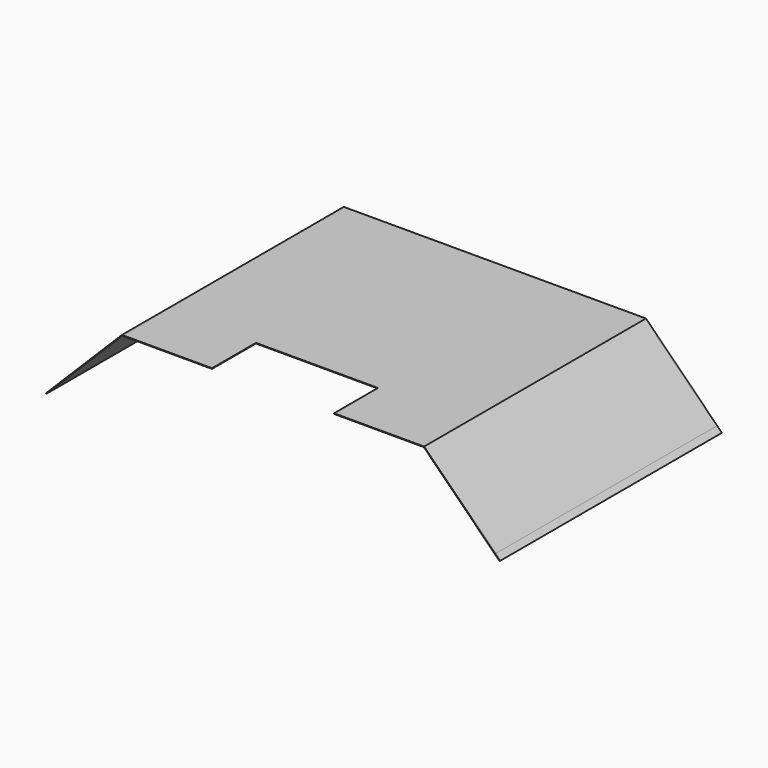
from build123d import *

# Parameters (mm, degrees)
F1_DEPTH = 50
F2_W     = 22
F2_H     = 9.5
F3_DEPTH = 13.7632765638
F4_DEPTH = 0.4


with BuildPart() as f1:
    # F0 (on Front) → F1 (new body)
    with BuildSketch(Plane.XZ):
        Polygon((-0.0777817459, 0.0777817459), (0, 0), (13.6522765638, 13.6522765638), (68.0406461445, 13.6522765638), (81.6929227083, 0), (81.7835545517, 0.0649316484), (80.9242431001, 0.9242431001), (68.0862096363, 13.7622765638), (13.606713072, 13.7622765638), align=None)
    extrude(amount=F1_DEPTH)

    # F2 (on face) → F3 (cut, through all)
    with BuildSketch(Plane.XY.offset(13.7622765638)):
        with Locations((40.8464613542, -45.25)):
            Rectangle(F2_W, F2_H)
    extrude(amount=-F3_DEPTH, mode=Mode.SUBTRACT)

    # F4 (cut): a face of the model
    f4_faces = [f1.faces().sort_by_distance(p)[0] for p in [
        (40.8464613542, -40.5, 13.7072765638),
    ]]
    extrude(f4_faces, amount=-F4_DEPTH, mode=Mode.SUBTRACT)


solid = f1.part
